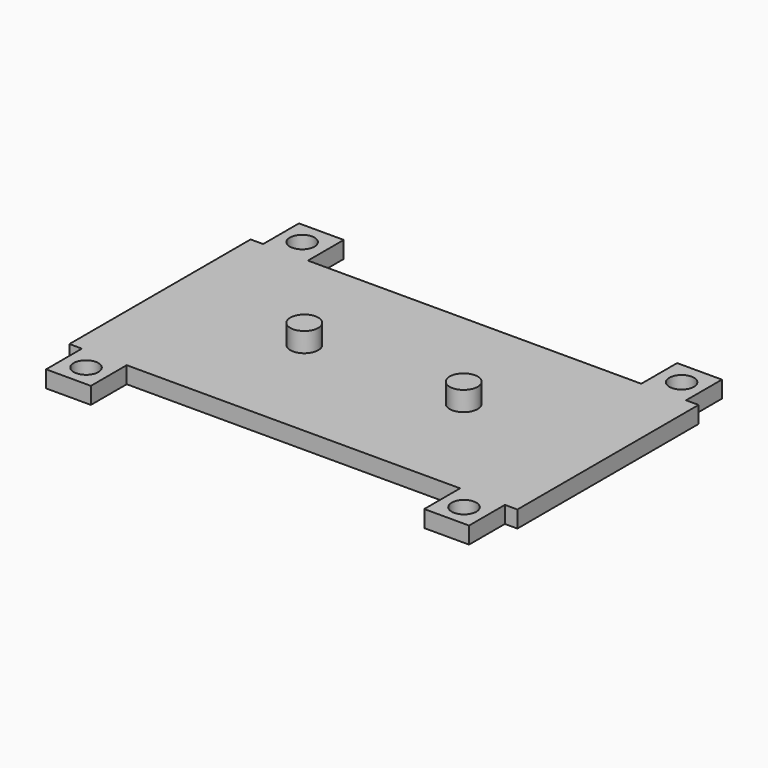
from build123d import *

# Parameters (mm, degrees)
F0_W     = 8
F0_H     = 8
F0_W_2   = 7.999141
F1_DEPTH = 3
F2_R     = 2.2
F3_DEPTH = 5
F4_R     = 2.5
F5_DEPTH = 6.5


with BuildPart() as f1:
    # F0 (on Top) → F1 (new body)
    with BuildSketch(Plane.XY):
        Polygon((-37.766442, 20.223286), (-40, 20.223286), (-40, -20.223286), (-37.766442, -20.223286), (-29.767301, -20.223286), (29.767301, -20.223286), (37.766442, -20.223286), (40, -20.223286), (40, 20.223286), (37.766442, 20.223286), (36.185599, 20.223286), (29.766442, 20.223286), (28.185599, 20.223286), (-29.766442, 20.223286), align=None)
        with Locations((-33.766442, 24.223286)):
            Rectangle(F0_W, F0_H)
        with Locations((-33.766872, -24.223286)):
            Rectangle(F0_W_2, F0_H)
        Polygon((29.766442, 28.223286), (29.766442, 20.223286), (36.185599, 20.223286), (37.766442, 20.223286), (37.766442, 28.223286), align=None)
        with Locations((33.766872, -24.223286)):
            Rectangle(F0_W_2, F0_H)
    extrude(amount=F1_DEPTH)

    # F2 (on Top) → F3 (cut)
    with BuildSketch(Plane.XY):
        with Locations((-33.882905, 24.085037)):
            Circle(F2_R)
        with Locations((-33.74939, -24.326075)):
            Circle(F2_R)
        with Locations((33.882905, 24.085037)):
            Circle(F2_R)
        with Locations((33.74939, -24.326075)):
            Circle(F2_R)
    extrude(amount=F3_DEPTH, mode=Mode.SUBTRACT)

    # F4 (on Top) → F5 (join)
    with BuildSketch(Plane.XY):
        with Locations((-14.231804, 0)):
            Circle(F4_R)
        with Locations((14.231804, 0)):
            Circle(F4_R)
    extrude(amount=F5_DEPTH)


solid = f1.part
